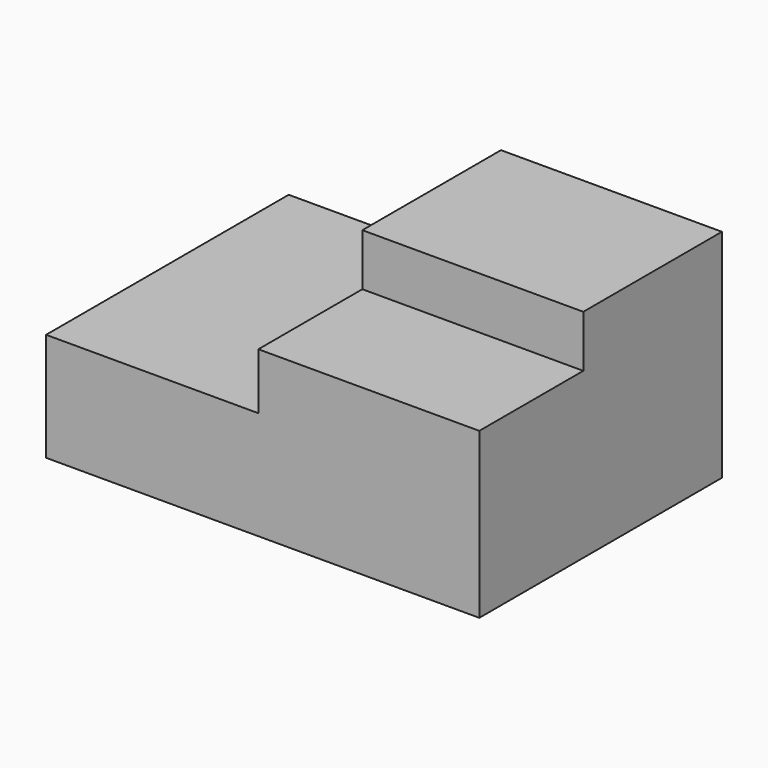
from build123d import *

# Parameters (mm, degrees)
F0_W      = 2540
F0_H      = 1270
F1_DEPTH  = 1778
F2_W      = 1270
F2_H      = 635
F3_DEPTH  = 1778.001
F3_FACE_W = 1778
F3_FACE_H = 635
F4_DEPTH  = 25.4
F5_W      = 762
F5_H      = 304.8
F6_DEPTH  = 1295.401


with BuildPart() as f1:
    # F0 (on Front) → F1 (new body)
    with BuildSketch(Plane.XZ):
        Rectangle(F0_W, F0_H)
    extrude(amount=F1_DEPTH)

    # F2 (on face) → F3 (cut, through all)
    with BuildSketch(Plane.XZ.offset(1778)):
        with Locations((-635, 317.5)):
            Rectangle(F2_W, F2_H)
    extrude(amount=-F3_DEPTH, mode=Mode.SUBTRACT)

    # F3_face (on face) → F4 (join)
    with BuildSketch(Plane(origin=(0, -889, 317.5), x_dir=(0, -1, 0), z_dir=(-1, 0, 0))):
        Rectangle(F3_FACE_W, F3_FACE_H)
    extrude(amount=F4_DEPTH)

    # F5 (on face) → F6 (cut, through all)
    with BuildSketch(Plane(origin=(-25.4, 0, 0), x_dir=(0, -1, 0), z_dir=(-1, 0, 0))):
        with Locations((1397, 482.6)):
            Rectangle(F5_W, F5_H)
    extrude(amount=-F6_DEPTH, mode=Mode.SUBTRACT)


solid = f1.part
